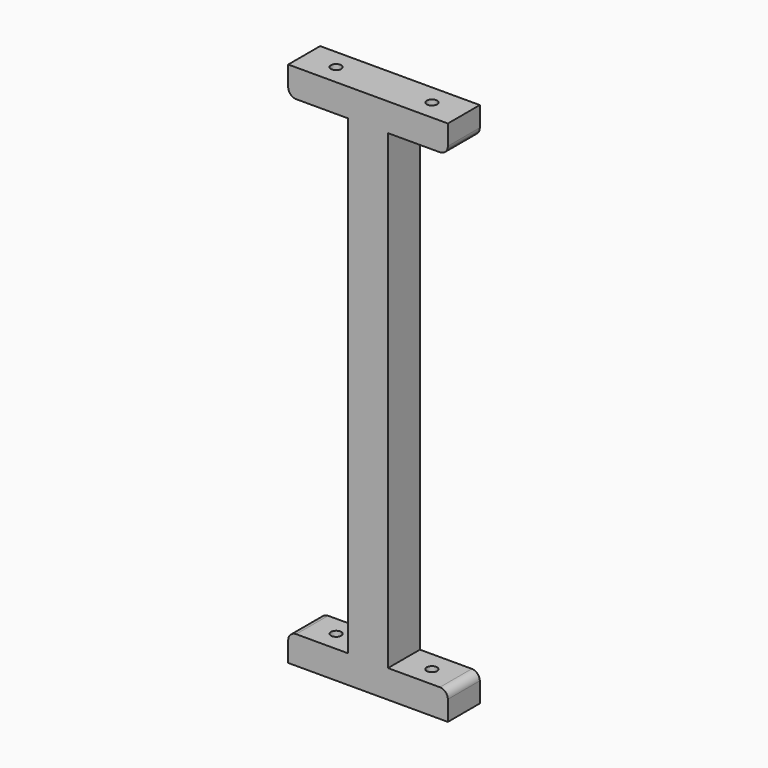
from build123d import *

# Parameters (mm, degrees)
CYLINDER010_R     = 1.3
CYLINDER010_DEPTH = 146
CYLINDER008_R     = 1.3
CYLINDER008_DEPTH = 146
BOX067_W          = 15
BOX067_H          = 10
BOX067_DEPTH      = 7
BOX068_W          = 10
BOX068_H          = 10
BOX068_DEPTH      = 132
BOX070_W          = 15
BOX070_H          = 10
BOX070_DEPTH      = 7
BOX071_W          = 15
BOX071_H          = 10
BOX071_DEPTH      = 7
BOX069_W          = 15
BOX069_H          = 10
BOX069_DEPTH      = 7
FILLET001_R       = 2


with BuildPart() as cilindro010:
    # Cylinder010 → Cylinder010 (new body)
    with BuildSketch(Plane(origin=(182, 5, 8), x_dir=(1, 0, 0), z_dir=(0, 0, 1))):
        Circle(CYLINDER010_R)
    extrude(amount=CYLINDER010_DEPTH)


with BuildPart() as cilindro008:
    # Cylinder008 → Cylinder008 (new body)
    with BuildSketch(Plane(origin=(158, 5, 8), x_dir=(1, 0, 0), z_dir=(0, 0, 1))):
        Circle(CYLINDER008_R)
    extrude(amount=CYLINDER008_DEPTH)


with BuildPart() as cubo030:
    # Box067 → Box067 (new body)
    with BuildSketch(Plane(origin=(175, 0, 15), x_dir=(1, 0, 0), z_dir=(0, 0, 1))):
        with Locations((7.5, 5)):
            Rectangle(BOX067_W, BOX067_H)
    extrude(amount=BOX067_DEPTH)


with BuildPart() as cubo031:
    # Box068 → Box068 (new body)
    with BuildSketch(Plane(origin=(165, 0, 15), x_dir=(1, 0, 0), z_dir=(0, 0, 1))):
        with Locations((5, 5)):
            Rectangle(BOX068_W, BOX068_H)
    extrude(amount=BOX068_DEPTH)


with BuildPart() as cubo033:
    # Box070 → Box070 (new body)
    with BuildSketch(Plane(origin=(150, 0, 15), x_dir=(1, 0, 0), z_dir=(0, 0, 1))):
        with Locations((7.5, 5)):
            Rectangle(BOX070_W, BOX070_H)
    extrude(amount=BOX070_DEPTH)


with BuildPart() as cubo034:
    # Box071 → Box071 (new body)
    with BuildSketch(Plane(origin=(150, 0, 140), x_dir=(1, 0, 0), z_dir=(0, 0, 1))):
        with Locations((7.5, 5)):
            Rectangle(BOX071_W, BOX071_H)
    extrude(amount=BOX071_DEPTH)


with BuildPart() as obj1:
    # Box069 → Box069 (new body)
    with BuildSketch(Plane(origin=(175, 0, 140), x_dir=(1, 0, 0), z_dir=(0, 0, 1))):
        with Locations((7.5, 5)):
            Rectangle(BOX069_W, BOX069_H)
    extrude(amount=BOX069_DEPTH)

    # Fusion009: union Cubo030, Cubo031, Cubo033, Cubo034
    add(cubo030.part)
    add(cubo031.part)
    add(cubo033.part)
    add(cubo034.part)

    # Fillet001
    fillet001_edges = [obj1.edges().sort_by_distance(p)[0] for p in [
        (190, 5, 140),
        (190, 5, 22),
        (150, 5, 22),
        (150, 5, 140),
    ]]
    fillet(fillet001_edges, radius=FILLET001_R)

    # Cut022: cut Cilindro008
    add(cilindro008.part, mode=Mode.SUBTRACT)

    # Cut025: cut Cilindro010
    add(cilindro010.part, mode=Mode.SUBTRACT)


solid = obj1.part
